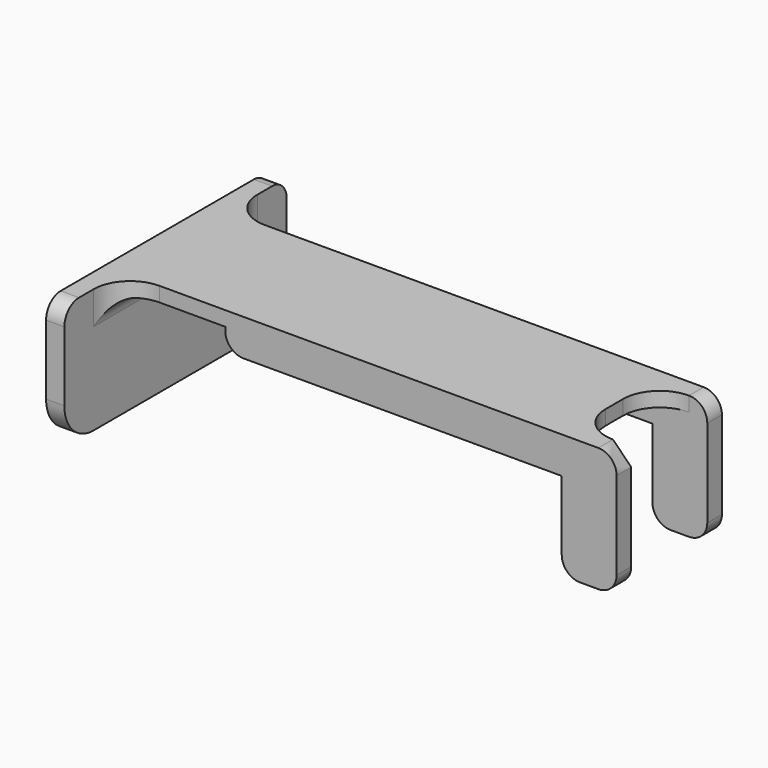
from build123d import *

# Parameters (mm, degrees)
F0_W     = 92
F0_H     = 26
F0_H_2   = 5
F0_W_2   = 15
F1_DEPTH = 4
F2_DEPTH = 30
F3_DEPTH = 6
F4_R     = 10
F5_R     = 5


with BuildPart() as f1:
    # F0 (on Top) → F1 (new body)
    with BuildSketch(Plane.XY):
        with Locations((74, -3.362047)):
            Rectangle(F0_W, F0_H)
        Polygon((28, -16.362047), (28, 9.637953), (28, 14.637953), (0, 14.637953), (0, 9.637953), (0, -16.362047), (0, -21.362047), (28, -21.362047), align=None)
        with Locations((74, 12.137953)):
            Rectangle(F0_W, F0_H_2)
        with Locations((74, -18.862047)):
            Rectangle(F0_W, F0_H_2)
        with Locations((127.5, -18.862047)):
            Rectangle(F0_W_2, F0_H_2)
        with Locations((127.5, 12.137953)):
            Rectangle(F0_W_2, F0_H_2)
        Polygon((0, 9.637953), (0, 14.637953), (0, 34.637953), (-5, 34.637953), (-5, -16.362047), (-5, -41.362047), (0, -41.362047), (0, -21.362047), (0, -16.362047), align=None)
    extrude(amount=F1_DEPTH)

    # F0 (on Top) → F2 (join)
    with BuildSketch(Plane.XY):
        Polygon((0, 9.637953), (0, 14.637953), (0, 34.637953), (-5, 34.637953), (-5, -16.362047), (-5, -41.362047), (0, -41.362047), (0, -21.362047), (0, -16.362047), align=None)
        with Locations((127.5, -18.862047)):
            Rectangle(F0_W_2, F0_H_2)
        with Locations((127.5, 12.137953)):
            Rectangle(F0_W_2, F0_H_2)
    extrude(amount=-F2_DEPTH)

    # F0 (on Top) → F3 (join)
    with BuildSketch(Plane.XY):
        with Locations((74, -18.862047)):
            Rectangle(F0_W, F0_H_2)
        with Locations((74, 12.137953)):
            Rectangle(F0_W, F0_H_2)
    extrude(amount=-F3_DEPTH)

    # F4
    f4_edges = [f1.edges().sort_by_distance(p)[0] for p in [
        (0, -21.362047, 2),
        (0, 14.637953, 2),
        (120, 9.637953, 2),
        (120, -16.362047, 2),
        (-2.5, -41.362047, -30),
        (-2.5, 34.637953, -30),
    ]]
    fillet(f4_edges, radius=F4_R)

    # F5
    f5_edges = [f1.edges().sort_by_distance(p)[0] for p in [
        (135, 12.137953, -30),
        (120, 12.137953, -30),
        (135, -18.862047, -30),
        (120, -18.862047, -30),
        (135, 12.137953, 4),
        (135, -18.862047, 4),
        (-2.5, -41.362047, 4),
        (-2.5, 34.637953, 4),
        (28, 12.137953, -6),
        (28, -18.862047, -6),
        (0, -3.362047, 0),
        (0, 19.637953, 0),
        (0, -26.362047, 0),
    ]]
    fillet(f5_edges, radius=F5_R)


solid = f1.part
